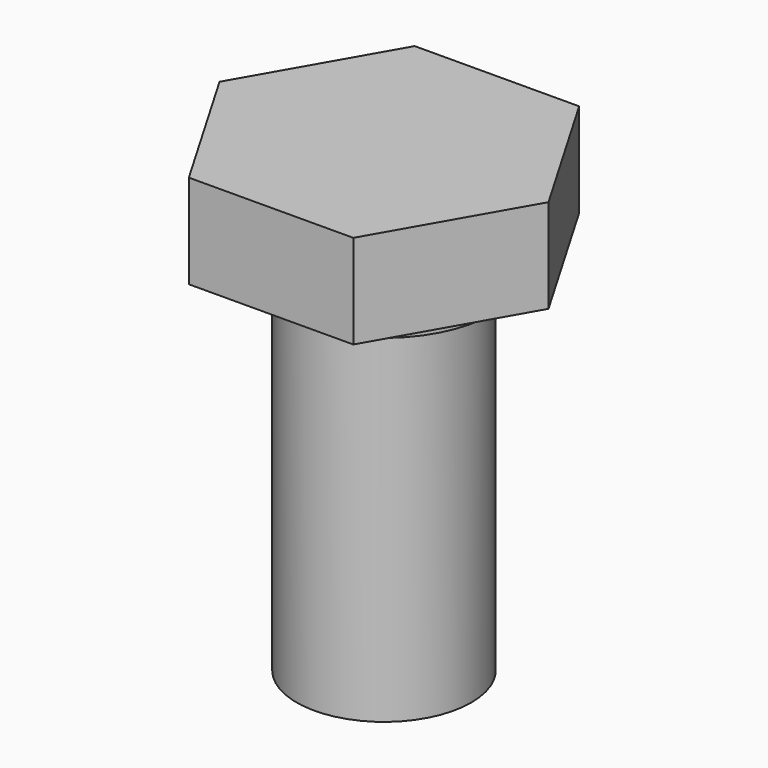
from build123d import *

# Parameters (mm, degrees)
F0_R     = 4
F1_DEPTH = 16
F3_DEPTH = 5.3
F4_R     = 5
F5_DEPTH = 1


with BuildPart() as f1:
    # F0 (on Top) → F1 (new body)
    with BuildSketch(Plane.XY):
        Circle(F0_R)
    extrude(amount=F1_DEPTH)

    # F2 (on face) → F3 (join)
    with BuildSketch(Plane.XY.offset(16)):
        Polygon((3.781678, -6.483228), (7.505479, 0.033416), (3.723801, 6.516643), (-3.781678, 6.483228), (-7.505479, -0.033416), (-3.723801, -6.516643), align=None)
    extrude(amount=F3_DEPTH)

    # F4 (on face) → F5 (cut)
    with BuildSketch(Plane(origin=(0, 0, 16), x_dir=(1, 0, 0), z_dir=(0, 0, -1))):
        Polygon((3.723801, -6.516643), (7.505479, -0.033416), (3.781678, 6.483228), (-3.723801, 6.516643), (-7.505479, 0.033416), (-3.781678, -6.483228), align=None)
        Circle(F4_R, mode=Mode.SUBTRACT)
    extrude(amount=-F5_DEPTH, mode=Mode.SUBTRACT)


solid = f1.part
